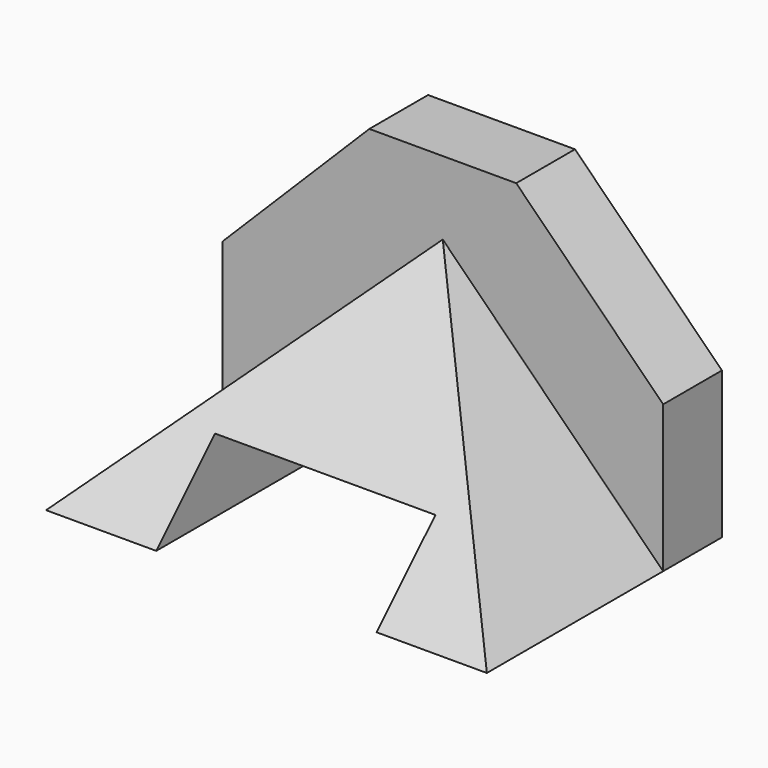
from build123d import *

# Parameters (mm, degrees)
F1_DEPTH = 50.8
F2_DEPTH = 12.7
F4_DEPTH = 76.201
F5_W     = 38.1
F5_H     = 12.7
F6_DEPTH = 50.801


with BuildPart() as f1:
    # F0 (on Front) → F1 (new body)
    with BuildSketch(Plane.XZ):
        Polygon((-38.1, 0), (0, 0), (38.1, 0), (0, 38.1), align=None)
    extrude(amount=F1_DEPTH)

    # F0 (on Front) → F2 (join)
    with BuildSketch(Plane.XZ):
        Polygon((-38.1, 25.4), (-38.1, 0), (0, 38.1), (38.1, 0), (38.1, 25.4), (12.7, 50.8), (-12.7, 50.8), align=None)
    extrude(amount=F2_DEPTH)

    # F3 (on face) → F4 (cut, through all)
    with BuildSketch(Plane.YZ.offset(38.1)):
        Polygon((-12.7, 38.1), (-50.8, 38.1), (-50.8, 0), align=None)
    extrude(amount=-F4_DEPTH, mode=Mode.SUBTRACT)

    # F5 (on face) → F6 (cut, through all)
    with BuildSketch(Plane(origin=(0, 0, 0), x_dir=(-1, 0, 0), z_dir=(0, 1, 0))):
        with Locations((0, 6.35)):
            Rectangle(F5_W, F5_H)
    extrude(amount=-F6_DEPTH, mode=Mode.SUBTRACT)


solid = f1.part
